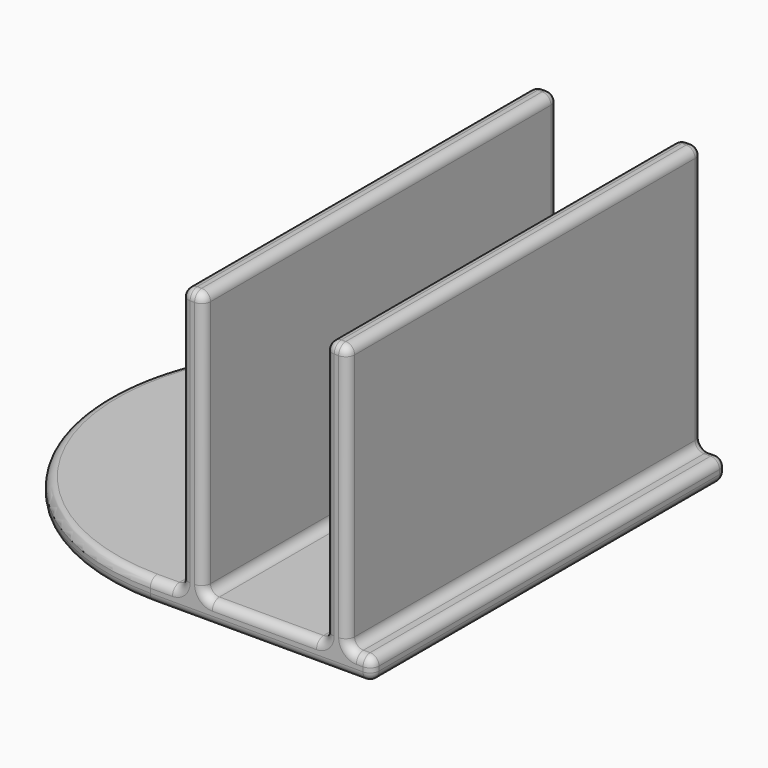
from build123d import *

# Parameters (mm, degrees)
PAD_DEPTH    = 5
SKETCH001_W  = 5
SKETCH001_H  = 99.995
PAD001_DEPTH = 60
FILLET_R     = 2


with BuildPart() as part:
    # Sketch → Pad (new body)
    with BuildSketch(Plane.XY):
        with BuildLine():
            Line((0, 49.9975), (50, 49.9975))
            Line((50, 49.9975), (50, -49.9975))
            Line((50, -49.9975), (0, -49.9975))
            ThreePointArc((0, 49.9975), (-49.5, 0), (0, -49.9975))
        make_face()
    extrude(amount=PAD_DEPTH)

    # Sketch001 (on Face6 of Pad) → Pad001 (join)
    with BuildSketch(Plane.XY.offset(5)):
        with Locations((9.5, 0)):
            Rectangle(SKETCH001_W, SKETCH001_H)
        with Locations((42, 0)):
            Rectangle(SKETCH001_W, SKETCH001_H)
    extrude(amount=PAD001_DEPTH)

    # Fillet
    fillet_edges = [part.edges().sort_by_distance(p)[0] for p in [
        (50, 49.9975, 2.5),
        (50, -49.9975, 2.5),
        (50, 0, 0),
        (50, 0, 5),
        (25, 49.9975, 0),
        (25, -49.9975, 0),
        (-49.5, 0, 0),
        (0, 49.9975, 2.5),
        (0, -49.9975, 2.5),
        (-49.5, 0, 5),
        (3.5, 49.9975, 5),
        (7, 0, 5),
        (3.5, -49.9975, 5),
        (47.25, 49.9975, 5),
        (47.25, -49.9975, 5),
        (44.5, 0, 5),
        (7, 49.9975, 35),
        (7, -49.9975, 35),
        (7, 0, 65),
        (9.5, -49.9975, 65),
        (12, 0, 65),
        (9.5, 49.9975, 65),
        (25.75, 49.9975, 5),
        (39.5, 0, 5),
        (25.75, -49.9975, 5),
        (12, 0, 5),
        (12, -49.9975, 35),
        (12, 49.9975, 35),
        (39.5, 49.9975, 35),
        (39.5, -49.9975, 35),
        (39.5, 0, 65),
        (44.5, -49.9975, 35),
        (44.5, 49.9975, 35),
        (44.5, 0, 65),
        (42, -49.9975, 65),
        (42, 49.9975, 65),
    ]]
    fillet(fillet_edges, radius=FILLET_R)


solid = part.part
